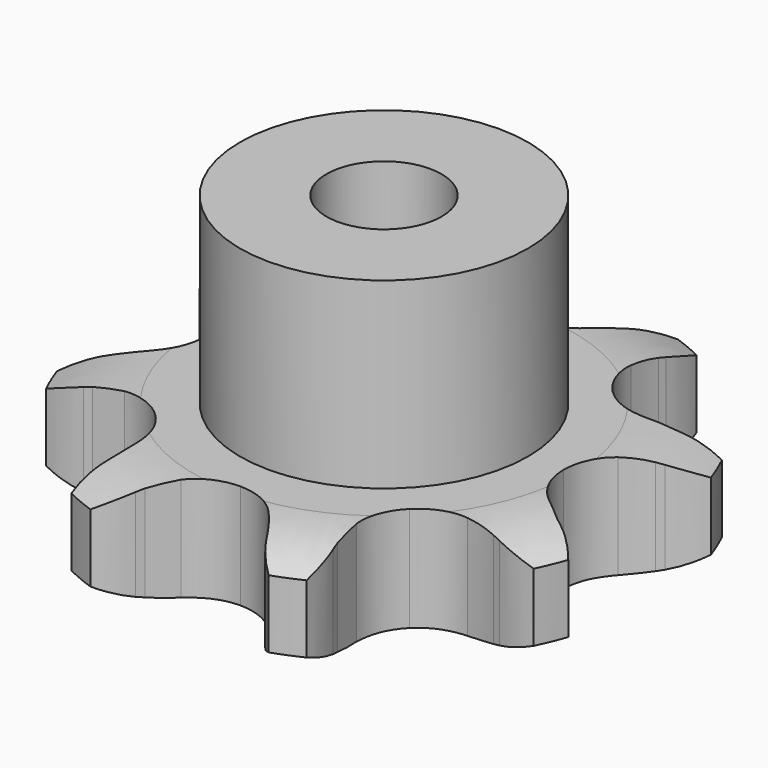
from build123d import *

# Parameters (mm, degrees)
PAD_DEPTH         = 9.1
SKETCH001_R       = 12.5
PAD001_DEPTH      = 25
SKETCH002_R       = 5
POCKET_DEPTH      = 0.001
POCKET_DEPTH_BACK = -25.001


with BuildPart() as part:
    # Sprocket → Pad (new body)
    with BuildSketch(Plane.XY):
        with BuildLine():
            ThreePointArc((-9.665725, 23.335123), (-7.403334, 21.91236), (-5.675507, 19.873419))
            Line((-5.675507, 19.873419), (-5.323224, 19.298545))
            ThreePointArc((-5.323224, 19.298545), (-4.606501, 18.245896), (-3.792186, 17.266789))
            ThreePointArc((-3.792186, 17.266789), (-2.071528, 16.033782), (0, 15.598187))
            ThreePointArc((0, 15.598187), (2.071528, 16.033782), (3.792186, 17.266789))
            ThreePointArc((3.792186, 17.266789), (4.606501, 18.245896), (5.323224, 19.298545))
            Line((5.323224, 19.298545), (5.675507, 19.873419))
            ThreePointArc((5.675507, 19.873419), (7.403334, 21.91236), (9.665725, 23.335123))
            ThreePointArc((9.665725, 23.335123), (10.259431, 20.729326), (10.03944, 18.065819))
            Line((10.03944, 18.065819), (9.882044, 17.410219))
            ThreePointArc((9.882044, 17.410219), (9.644509, 16.159085), (9.527983, 14.890944))
            ThreePointArc((9.527983, 14.890944), (9.872805, 12.802388), (11.029584, 11.029584))
            ThreePointArc((11.029584, 11.029584), (12.802388, 9.872805), (14.890944, 9.527983))
            Line((14.890944, 9.527983), (17.410219, 9.882044))
            ThreePointArc((17.410219, 9.882044), (17.737019, 9.964906), (18.065819, 10.03944))
            ThreePointArc((18.065819, 10.03944), (20.729326, 10.259431), (23.335123, 9.665725))
            ThreePointArc((23.335123, 9.665725), (21.91236, 7.403334), (19.873419, 5.675507))
            Line((19.873419, 5.675507), (19.298545, 5.323224))
            ThreePointArc((19.298545, 5.323224), (18.245896, 4.606501), (17.266789, 3.792186))
            ThreePointArc((17.266789, 3.792186), (16.033782, 2.071528), (15.598187, 0))
            ThreePointArc((15.598187, 0), (16.033782, -2.071528), (17.266789, -3.792186))
            Line((17.266789, -3.792186), (19.298545, -5.323224))
            ThreePointArc((19.298545, -5.323224), (19.588219, -5.495714), (19.873419, -5.675507))
            ThreePointArc((19.873419, -5.675507), (21.91236, -7.403334), (23.335123, -9.665725))
            ThreePointArc((23.335123, -9.665725), (20.729326, -10.259431), (18.065819, -10.03944))
            Line((18.065819, -10.03944), (17.410219, -9.882044))
            ThreePointArc((17.410219, -9.882044), (16.159085, -9.644509), (14.890944, -9.527983))
            ThreePointArc((14.890944, -9.527983), (12.802388, -9.872805), (11.029584, -11.029584))
            ThreePointArc((11.029584, -11.029584), (9.872805, -12.802388), (9.527983, -14.890944))
            Line((9.527983, -14.890944), (9.882044, -17.410219))
            ThreePointArc((9.882044, -17.410219), (9.964906, -17.737019), (10.03944, -18.065819))
            ThreePointArc((10.03944, -18.065819), (10.259431, -20.729326), (9.665725, -23.335123))
            ThreePointArc((9.665725, -23.335123), (7.403334, -21.91236), (5.675507, -19.873419))
            Line((5.675507, -19.873419), (5.323224, -19.298545))
            ThreePointArc((5.323224, -19.298545), (4.606501, -18.245896), (3.792186, -17.266789))
            ThreePointArc((3.792186, -17.266789), (2.071528, -16.033782), (0, -15.598187))
            ThreePointArc((0, -15.598187), (-2.071528, -16.033782), (-3.792186, -17.266789))
            Line((-3.792186, -17.266789), (-5.323224, -19.298545))
            ThreePointArc((-5.323224, -19.298545), (-5.495714, -19.588219), (-5.675507, -19.873419))
            ThreePointArc((-5.675507, -19.873419), (-7.403334, -21.91236), (-9.665725, -23.335123))
            ThreePointArc((-9.665725, -23.335123), (-10.259431, -20.729326), (-10.03944, -18.065819))
            Line((-10.03944, -18.065819), (-9.882044, -17.410219))
            ThreePointArc((-9.882044, -17.410219), (-9.644509, -16.159085), (-9.527983, -14.890944))
            ThreePointArc((-9.527983, -14.890944), (-9.872805, -12.802388), (-11.029584, -11.029584))
            ThreePointArc((-11.029584, -11.029584), (-12.802388, -9.872805), (-14.890944, -9.527983))
            Line((-14.890944, -9.527983), (-17.410219, -9.882044))
            ThreePointArc((-17.410219, -9.882044), (-17.737019, -9.964906), (-18.065819, -10.03944))
            ThreePointArc((-18.065819, -10.03944), (-20.729326, -10.259431), (-23.335123, -9.665725))
            ThreePointArc((-23.335123, -9.665725), (-21.91236, -7.403334), (-19.873419, -5.675507))
            Line((-19.873419, -5.675507), (-19.298545, -5.323224))
            ThreePointArc((-19.298545, -5.323224), (-18.245896, -4.606501), (-17.266789, -3.792186))
            ThreePointArc((-17.266789, -3.792186), (-16.033782, -2.071528), (-15.598187, 0))
            ThreePointArc((-15.598187, 0), (-16.033782, 2.071528), (-17.266789, 3.792186))
            Line((-17.266789, 3.792186), (-19.298545, 5.323224))
            ThreePointArc((-19.298545, 5.323224), (-19.588219, 5.495714), (-19.873419, 5.675507))
            ThreePointArc((-19.873419, 5.675507), (-21.91236, 7.403334), (-23.335123, 9.665725))
            ThreePointArc((-23.335123, 9.665725), (-20.729326, 10.259431), (-18.065819, 10.03944))
            Line((-18.065819, 10.03944), (-17.410219, 9.882044))
            ThreePointArc((-17.410219, 9.882044), (-16.159085, 9.644509), (-14.890944, 9.527983))
            ThreePointArc((-14.890944, 9.527983), (-12.802388, 9.872805), (-11.029584, 11.029584))
            ThreePointArc((-11.029584, 11.029584), (-9.872805, 12.802388), (-9.527983, 14.890944))
            Line((-9.527983, 14.890944), (-9.882044, 17.410219))
            ThreePointArc((-9.882044, 17.410219), (-9.964906, 17.737019), (-10.03944, 18.065819))
            ThreePointArc((-10.03944, 18.065819), (-10.259431, 20.729326), (-9.665725, 23.335123))
        make_face()
    extrude(amount=PAD_DEPTH)

    # Sketch → Groove (revolve, cut)
    with BuildSketch(Plane.XZ):
        with BuildLine():
            Line((16.525762, 0), (23.5, 0))
            Line((30.474238, 0), (23.5, 0))
            Line((30.474238, 9.1), (30.474238, 0))
            Line((23.5, 9.1), (30.474238, 9.1))
            Line((16.525762, 9.1), (23.5, 9.1))
            ThreePointArc((23.5, 7.5), (20.10347, 8.694871), (16.525762, 9.1))
            Line((23.5, 1.6), (23.5, 7.5))
            ThreePointArc((16.525762, 0), (20.10347, 0.405129), (23.5, 1.6))
        make_face()
    revolve(axis=Axis((0, 0, 0), (0, 0, 1)), mode=Mode.SUBTRACT)

    # Sketch001 → Pad001 (join)
    with BuildSketch(Plane.XY):
        Circle(SKETCH001_R)
    extrude(amount=PAD001_DEPTH)

    # Sketch002 → Pocket (cut, two sides)
    with BuildSketch(Plane.XY) as pocket_sk:
        Circle(SKETCH002_R)
    extrude(amount=-POCKET_DEPTH, mode=Mode.SUBTRACT)
    extrude(pocket_sk.sketch, amount=-POCKET_DEPTH_BACK, mode=Mode.SUBTRACT)


solid = part.part
